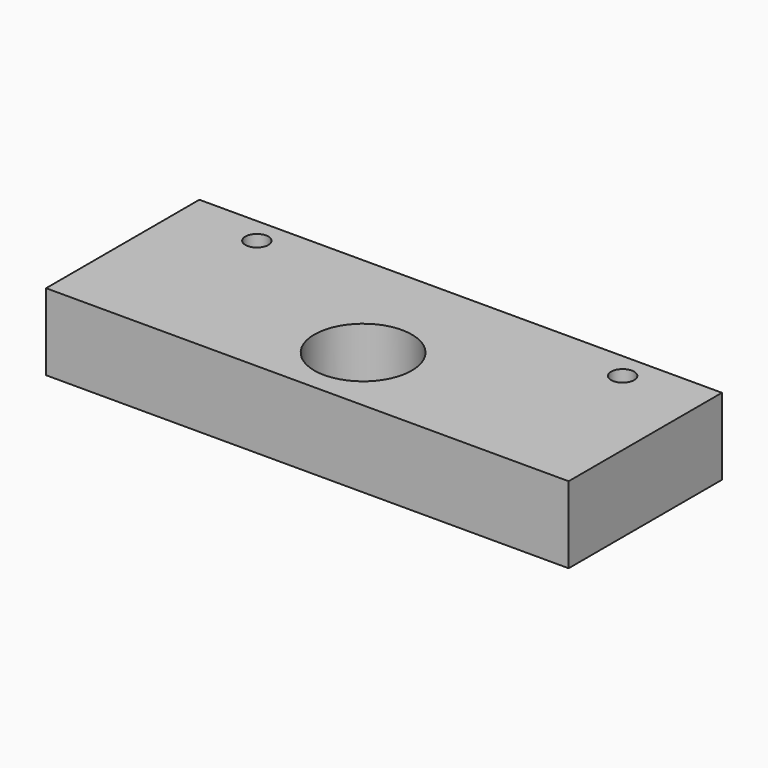
from build123d import *

# Parameters (mm, degrees)
F0_W     = 150
F0_H     = 55
F1_DEPTH = 22
F3_D     = 6.6
F4_D     = 28


with BuildPart() as f1:
    # F0 (on Top) → F1 (new body)
    with BuildSketch(Plane.XY):
        Rectangle(F0_W, F0_H)
    extrude(amount=F1_DEPTH)

    # F3 (through all)
    with Locations(Plane.XY.offset(22)):
        with Locations((-52.5, 20), (52.5, 20)):
            Hole(F3_D / 2)

    # F4 (through all)
    with Locations(Plane(origin=(0, 0, 0), x_dir=(1, 0, 0), z_dir=(0, 0, -1))):
        with Locations((0, 7.5)):
            Hole(F4_D / 2)


solid = f1.part
